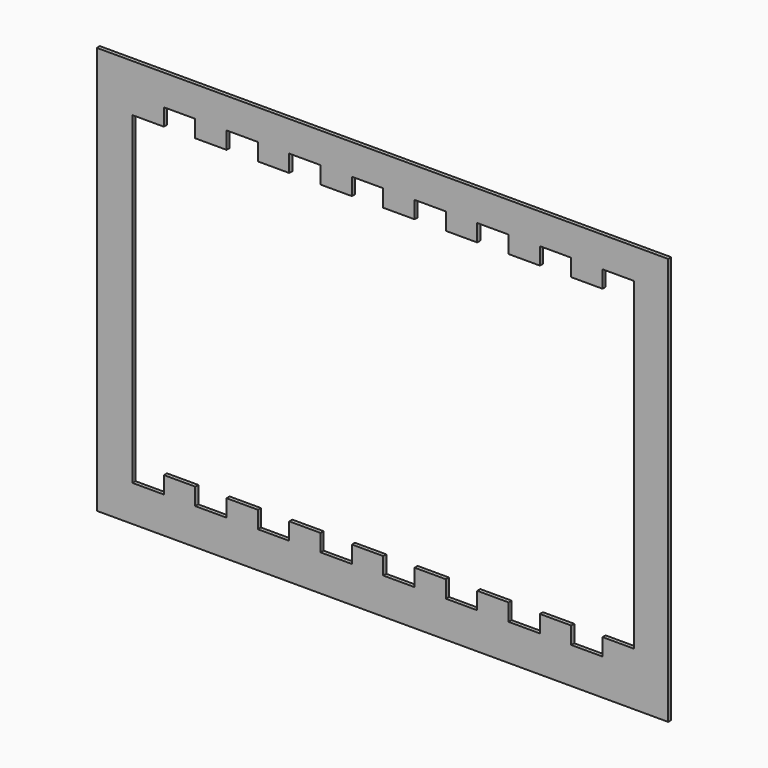
from build123d import *

# Parameters (mm, degrees)
F0_W     = 300
F0_H     = 214
F1_DEPTH = 2


with BuildPart() as f1:
    # F0 (on Front) → F1 (new body)
    with BuildSketch(Plane.XZ):
        with Locations((-132, 79)):
            Rectangle(F0_W, F0_H)
        Polygon((0, 170), (0, 0), (-16.45, 0), (-16.45, -9), (-32.9, -9), (-32.9, 0), (-49.35, 0), (-49.35, -9), (-65.8, -9), (-65.8, 0), (-82.25, 0), (-82.25, -9), (-98.7, -9), (-98.7, 0), (-115.15, 0), (-115.15, -9), (-131.6, -9), (-131.6, 0), (-148.05, 0), (-148.05, -9), (-164.5, -9), (-164.5, 0), (-180.95, 0), (-180.95, -9), (-197.4, -9), (-197.4, 0), (-213.85, 0), (-213.85, -9), (-230.3, -9), (-230.3, 0), (-246.75, 0), (-246.75, -9), (-263.2, -9), (-263.2, 0), (-263.2, 161), (-246.75, 161), (-246.75, 170), (-230.3, 170), (-230.3, 161), (-213.85, 161), (-213.85, 170), (-197.4, 170), (-197.4, 161), (-180.95, 161), (-180.95, 170), (-164.5, 170), (-164.5, 161), (-148.05, 161), (-148.05, 170), (-131.6, 170), (-131.6, 161), (-115.15, 161), (-115.15, 170), (-98.7, 170), (-98.7, 161), (-82.25, 161), (-82.25, 170), (-65.8, 170), (-65.8, 161), (-49.35, 161), (-49.35, 170), (-32.9, 170), (-32.9, 161), (-16.45, 161), (-16.45, 170), align=None, mode=Mode.SUBTRACT)
    extrude(amount=F1_DEPTH)


solid = f1.part
